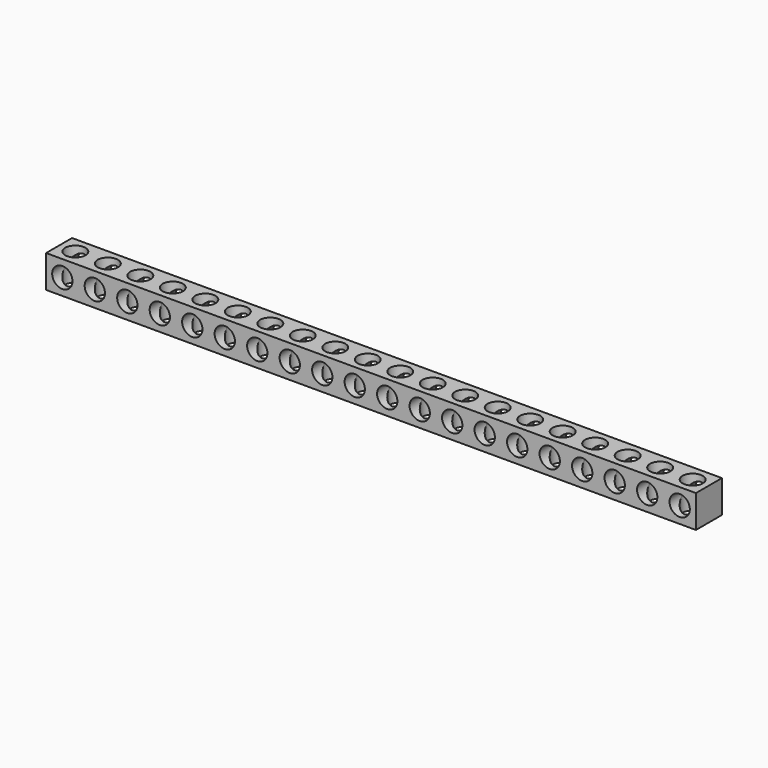
from build123d import *

# Parameters (mm, degrees)
F0_W     = 160
F0_H     = 8
F0_R     = 2.5
F1_DEPTH = 4
F2_R     = 2.5
F3_DEPTH = 8


with BuildPart() as f1:
    # F0 (on Top) → F1 (new body, symmetric)
    with BuildSketch(Plane.XY):
        Rectangle(F0_W, F0_H)
        with Locations((-76, 0)):
            Circle(F0_R, mode=Mode.SUBTRACT)
        with Locations((-68, 0)):
            Circle(F0_R, mode=Mode.SUBTRACT)
        with Locations((-60, 0)):
            Circle(F0_R, mode=Mode.SUBTRACT)
        with Locations((-52, 0)):
            Circle(F0_R, mode=Mode.SUBTRACT)
        with Locations((-44, 0)):
            Circle(F0_R, mode=Mode.SUBTRACT)
        with Locations((-36, 0)):
            Circle(F0_R, mode=Mode.SUBTRACT)
        with Locations((-28, 0)):
            Circle(F0_R, mode=Mode.SUBTRACT)
        with Locations((-20, 0)):
            Circle(F0_R, mode=Mode.SUBTRACT)
        with Locations((-12, 0)):
            Circle(F0_R, mode=Mode.SUBTRACT)
        with Locations((-4, 0)):
            Circle(F0_R, mode=Mode.SUBTRACT)
        with Locations((4, 0)):
            Circle(F0_R, mode=Mode.SUBTRACT)
        with Locations((12, 0)):
            Circle(F0_R, mode=Mode.SUBTRACT)
        with Locations((20, 0)):
            Circle(F0_R, mode=Mode.SUBTRACT)
        with Locations((28, 0)):
            Circle(F0_R, mode=Mode.SUBTRACT)
        with Locations((36, 0)):
            Circle(F0_R, mode=Mode.SUBTRACT)
        with Locations((44, 0)):
            Circle(F0_R, mode=Mode.SUBTRACT)
        with Locations((52, 0)):
            Circle(F0_R, mode=Mode.SUBTRACT)
        with Locations((60, 0)):
            Circle(F0_R, mode=Mode.SUBTRACT)
        with Locations((68, 0)):
            Circle(F0_R, mode=Mode.SUBTRACT)
        with Locations((76, 0)):
            Circle(F0_R, mode=Mode.SUBTRACT)
    extrude(amount=F1_DEPTH, both=True)

    # F2 (on face) → F3 (cut, through all)
    with BuildSketch(Plane.XZ.offset(4)):
        with Locations((-76, 0)):
            Circle(F2_R)
        with Locations((-68, 0)):
            Circle(F2_R)
        with Locations((-60, 0)):
            Circle(F2_R)
        with Locations((-52, 0)):
            Circle(F2_R)
        with Locations((-44, 0)):
            Circle(F2_R)
        with Locations((-36, 0)):
            Circle(F2_R)
        with Locations((-28, 0)):
            Circle(F2_R)
        with Locations((-20, 0)):
            Circle(F2_R)
        with Locations((-12, 0)):
            Circle(F2_R)
        with Locations((-4, 0)):
            Circle(F2_R)
        with Locations((4, 0)):
            Circle(F2_R)
        with Locations((12, 0)):
            Circle(F2_R)
        with Locations((20, 0)):
            Circle(F2_R)
        with Locations((28, 0)):
            Circle(F2_R)
        with Locations((36, 0)):
            Circle(F2_R)
        with Locations((44, 0)):
            Circle(F2_R)
        with Locations((52, 0)):
            Circle(F2_R)
        with Locations((60, 0)):
            Circle(F2_R)
        with Locations((68, 0)):
            Circle(F2_R)
        with Locations((76, 0)):
            Circle(F2_R)
    extrude(amount=-F3_DEPTH, mode=Mode.SUBTRACT)


solid = f1.part
